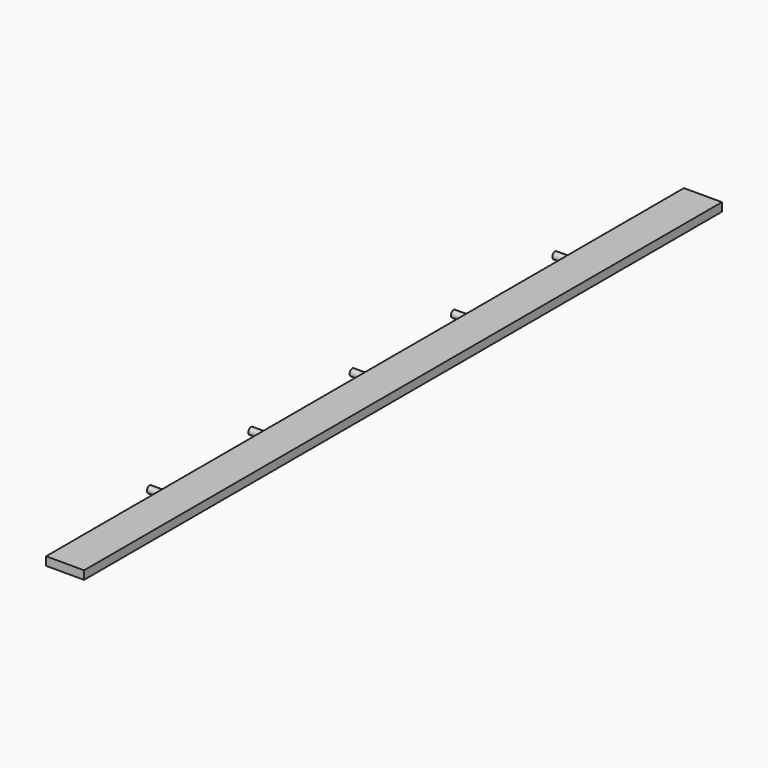
from build123d import *

# Parameters (mm, degrees)
F0_W     = 4.5
F0_H     = 94.4
F1_DEPTH = 1
F2_R     = 0.4045
F3_DEPTH = 1.5


with BuildPart() as f1:
    # F0 (on Top) → F1 (new body)
    with BuildSketch(Plane.XY):
        with Locations((-47.388159, 30.400966)):
            Rectangle(F0_W, F0_H)
    extrude(amount=-F1_DEPTH)

    # F2 (on face) → F3 (join)
    with BuildSketch(Plane(origin=(-49.638159, 0, 0), x_dir=(0, -1, 0), z_dir=(-1, 0, 0))):
        with Locations((-30.400966, -0.5)):
            Circle(F2_R)
        with Locations((-0.400966, -0.5)):
            Circle(F2_R)
        with Locations((-60.400966, -0.5)):
            Circle(F2_R)
        with Locations((-45.400966, -0.5)):
            Circle(F2_R)
        with Locations((-15.400966, -0.5)):
            Circle(F2_R)
    extrude(amount=F3_DEPTH)


solid = f1.part
